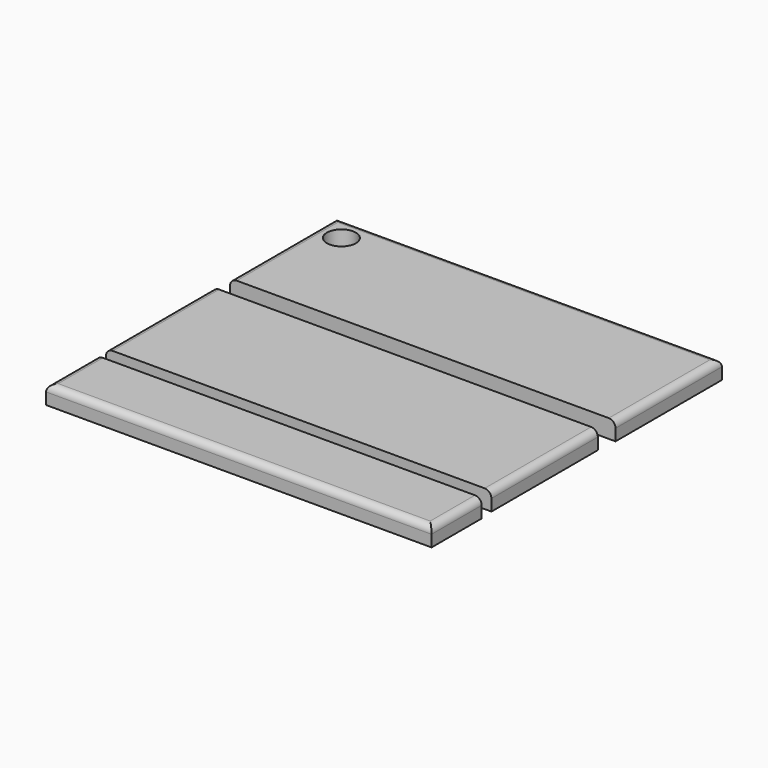
from build123d import *

# Parameters (mm, degrees)
F0_W     = 400
F0_H     = 65
F0_H_2   = 138
F1_DEPTH = 19
F2_R     = 7
F4_D     = 30


with BuildPart() as f1:
    # F0 (on Top) → F1 (new body)
    with BuildSketch(Plane.XY):
        with Locations((-76.044816, -100.765272)):
            Rectangle(F0_W, F0_H)
        with Locations((-77.457201, 15.146514)):
            Rectangle(F0_W, F0_H_2)
        with Locations((-75.897102, 174.182409)):
            Rectangle(F0_W, F0_H_2)
    extrude(amount=F1_DEPTH)

    # F2
    f2_edges = [f1.edges().sort_by_distance(p)[0] for p in [
        (124.102898, 174.182409, 19),
        (-75.897102, 243.182409, 19),
        (-275.897102, 174.182409, 19),
        (122.542799, 15.146514, 19),
        (-277.457201, 15.146514, 19),
        (-276.044816, -100.765272, 19),
        (-76.044816, -133.265272, 19),
        (123.955184, -100.765272, 19),
    ]]
    fillet(f2_edges, radius=F2_R)

    # F4 (through all)
    with Locations(Plane.XY.offset(19)):
        with Locations((-249.606907, 216.737688)):
            Hole(F4_D / 2)


solid = f1.part
